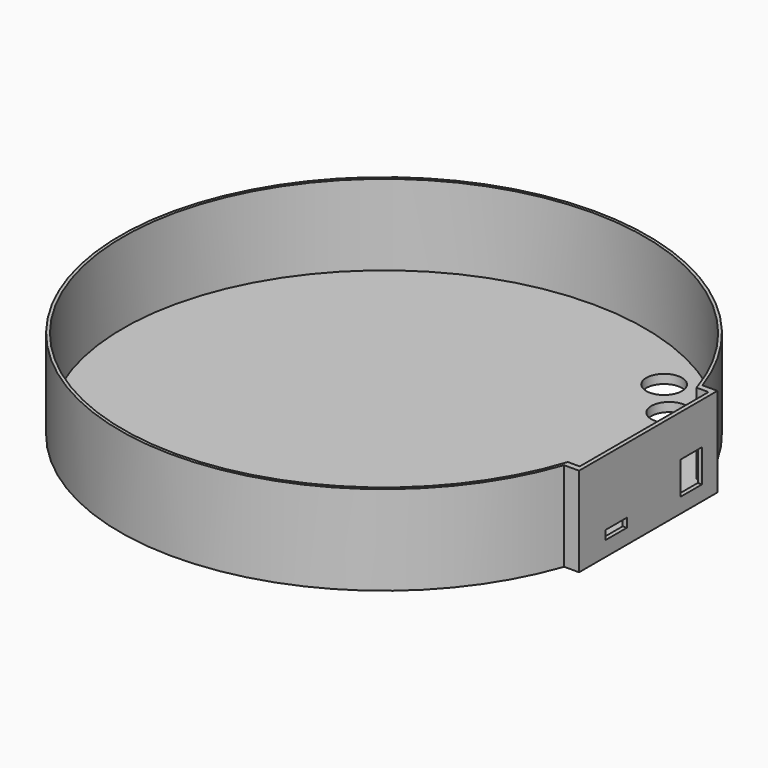
from build123d import *

# Parameters (mm, degrees)
SKETCH007_R     = 6
PAD006_DEPTH    = 30
POCKET_DEPTH    = 27
SKETCH009_W     = 9
SKETCH009_H     = 11
SKETCH009_H_2   = 3
POCKET001_DEPTH = 2


with BuildPart() as part:
    # Sketch007 → Pad006 (new body)
    with BuildSketch(Plane.XY):
        with BuildLine():
            ThreePointArc((83.613695, 29), (-88.5, 0), (83.613695, -29))
            Line((88.613695, -29), (83.613695, -29))
            Line((88.613695, 29), (88.613695, -29))
            Line((83.613695, 29), (88.613695, 29))
        make_face()
        with Locations((43.046276, 63.61895)):
            Circle(SKETCH007_R, mode=Mode.SUBTRACT)
        with Locations((54.046276, 52)):
            Circle(SKETCH007_R, mode=Mode.SUBTRACT)
        with Locations((65.046276, 40.38105)):
            Circle(SKETCH007_R, mode=Mode.SUBTRACT)
    extrude(amount=-PAD006_DEPTH)

    # Sketch008 → Pocket (cut)
    with BuildSketch(Plane.XY):
        with BuildLine():
            ThreePointArc((83.230103, 27), (-87.5, 0), (83.230103, -27))
            Line((83.230103, -27), (87.230103, -27))
            Line((87.230103, -27), (87.230103, 27))
            Line((87.230103, 27), (83.230103, 27))
        make_face()
    extrude(amount=-POCKET_DEPTH, mode=Mode.SUBTRACT)

    # Sketch009 (on Face6 of Pocket) → Pocket001 (cut)
    with BuildSketch(Plane.YZ.offset(88.613695)):
        with Locations((18, -19.5)):
            Rectangle(SKETCH009_W, SKETCH009_H)
        with Locations((-13.5, -23.5)):
            Rectangle(SKETCH009_W, SKETCH009_H_2)
    extrude(amount=-POCKET001_DEPTH, mode=Mode.SUBTRACT)


solid = part.part
